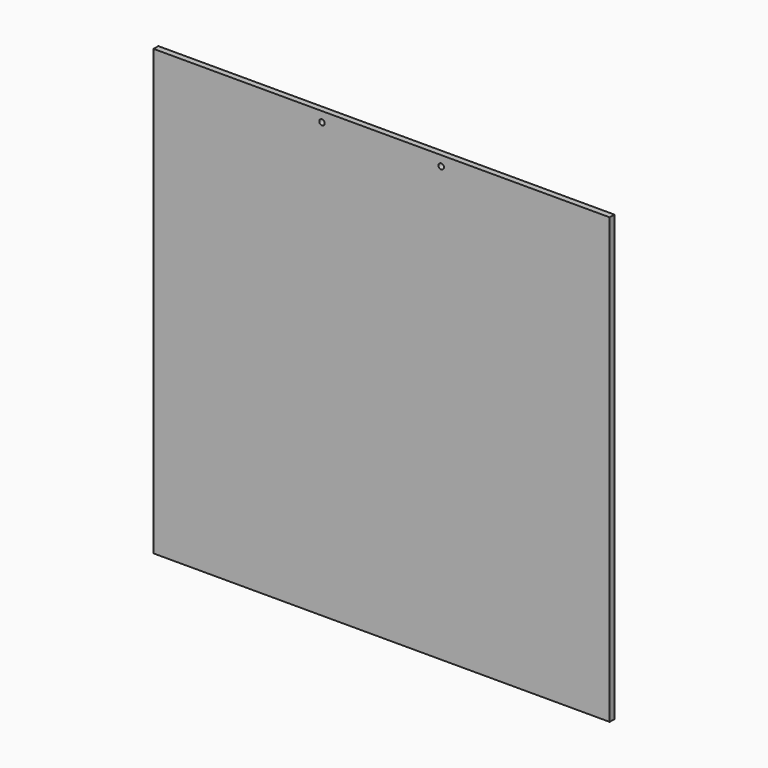
from build123d import *

# Parameters (mm, degrees)
F0_W     = 459
F0_H     = 447
F1_DEPTH = 3
F2_R     = 2.75
F3_DEPTH = 25


with BuildPart() as f1:
    # F0 (on Front) → F1 (new body, symmetric)
    with BuildSketch(Plane.XZ):
        Rectangle(F0_W, F0_H)
    extrude(amount=F1_DEPTH, both=True)

    # F2 (on face) → F3 (cut)
    with BuildSketch(Plane.XZ.offset(3)):
        with Locations((-60, 213.5)):
            Circle(F2_R)
        with Locations((60, 213.5)):
            Circle(F2_R)
    extrude(amount=-F3_DEPTH, mode=Mode.SUBTRACT)


solid = f1.part
